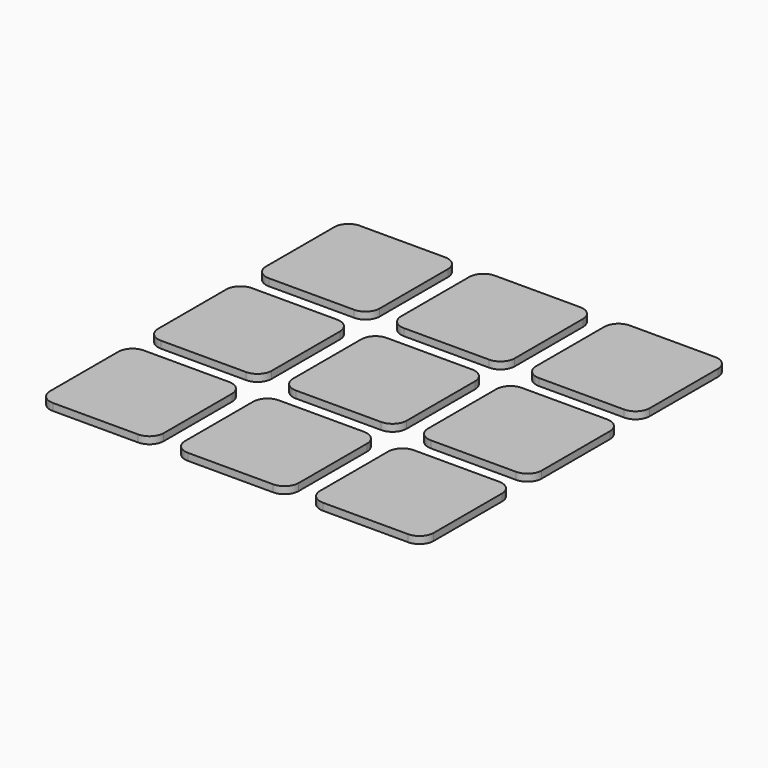
from build123d import *

# Parameters (mm, degrees)
F1_DEPTH = 1


with BuildPart() as f1:
    # F0 (on Top) → F1 (new body)
    with BuildSketch(Plane.XY):
        with BuildLine():
            ThreePointArc((8, 6), (7.414214, 7.414214), (6, 8))
            Line((6, 8), (-6, 8))
            ThreePointArc((-6, 8), (-7.414214, 7.414214), (-8, 6))
            Line((-8, 6), (-8, -6))
            ThreePointArc((-8, -6), (-7.414214, -7.414214), (-6, -8))
            Line((-6, -8), (6, -8))
            ThreePointArc((6, -8), (7.414214, -7.414214), (8, -6))
            Line((8, -6), (8, 6))
        make_face()
        with BuildLine():
            Line((-6, 11), (6, 11))
            ThreePointArc((6, 11), (7.414214, 11.585786), (8, 13))
            Line((8, 13), (8, 25))
            ThreePointArc((8, 25), (7.414214, 26.414214), (6, 27))
            Line((6, 27), (-6, 27))
            ThreePointArc((-6, 27), (-7.414214, 26.414214), (-8, 25))
            Line((-8, 25), (-8, 13))
            ThreePointArc((-8, 13), (-7.414214, 11.585786), (-6, 11))
        make_face()
        with BuildLine():
            Line((-6, 30), (6, 30))
            ThreePointArc((6, 30), (7.414214, 30.585786), (8, 32))
            Line((8, 32), (8, 44))
            ThreePointArc((8, 44), (7.414214, 45.414214), (6, 46))
            Line((6, 46), (-6, 46))
            ThreePointArc((-6, 46), (-7.414214, 45.414214), (-8, 44))
            Line((-8, 44), (-8, 32))
            ThreePointArc((-8, 32), (-7.414214, 30.585786), (-6, 30))
        make_face()
        with BuildLine():
            Line((13, -8), (25, -8))
            ThreePointArc((25, -8), (26.414214, -7.414214), (27, -6))
            Line((27, -6), (27, 6))
            ThreePointArc((27, 6), (26.414214, 7.414214), (25, 8))
            Line((25, 8), (13, 8))
            ThreePointArc((13, 8), (11.585786, 7.414214), (11, 6))
            Line((11, 6), (11, -6))
            ThreePointArc((11, -6), (11.585786, -7.414214), (13, -8))
        make_face()
        with BuildLine():
            Line((13, 11), (25, 11))
            ThreePointArc((25, 11), (26.414214, 11.585786), (27, 13))
            Line((27, 13), (27, 25))
            ThreePointArc((27, 25), (26.414214, 26.414214), (25, 27))
            Line((25, 27), (13, 27))
            ThreePointArc((13, 27), (11.585786, 26.414214), (11, 25))
            Line((11, 25), (11, 13))
            ThreePointArc((11, 13), (11.585786, 11.585786), (13, 11))
        make_face()
        with BuildLine():
            Line((13, 30), (25, 30))
            ThreePointArc((25, 30), (26.414214, 30.585786), (27, 32))
            Line((27, 32), (27, 44))
            ThreePointArc((27, 44), (26.414214, 45.414214), (25, 46))
            Line((25, 46), (13, 46))
            ThreePointArc((13, 46), (11.585786, 45.414214), (11, 44))
            Line((11, 44), (11, 32))
            ThreePointArc((11, 32), (11.585786, 30.585786), (13, 30))
        make_face()
        with BuildLine():
            Line((32, -8), (44, -8))
            ThreePointArc((44, -8), (45.414214, -7.414214), (46, -6))
            Line((46, -6), (46, 6))
            ThreePointArc((46, 6), (45.414214, 7.414214), (44, 8))
            Line((44, 8), (32, 8))
            ThreePointArc((32, 8), (30.585786, 7.414214), (30, 6))
            Line((30, 6), (30, -6))
            ThreePointArc((30, -6), (30.585786, -7.414214), (32, -8))
        make_face()
        with BuildLine():
            Line((32, 11), (44, 11))
            ThreePointArc((44, 11), (45.414214, 11.585786), (46, 13))
            Line((46, 13), (46, 25))
            ThreePointArc((46, 25), (45.414214, 26.414214), (44, 27))
            Line((44, 27), (32, 27))
            ThreePointArc((32, 27), (30.585786, 26.414214), (30, 25))
            Line((30, 25), (30, 13))
            ThreePointArc((30, 13), (30.585786, 11.585786), (32, 11))
        make_face()
        with BuildLine():
            Line((32, 30), (44, 30))
            ThreePointArc((44, 30), (45.414214, 30.585786), (46, 32))
            Line((46, 32), (46, 44))
            ThreePointArc((46, 44), (45.414214, 45.414214), (44, 46))
            Line((44, 46), (32, 46))
            ThreePointArc((32, 46), (30.585786, 45.414214), (30, 44))
            Line((30, 44), (30, 32))
            ThreePointArc((30, 32), (30.585786, 30.585786), (32, 30))
        make_face()
    extrude(amount=F1_DEPTH)


solid = f1.part
